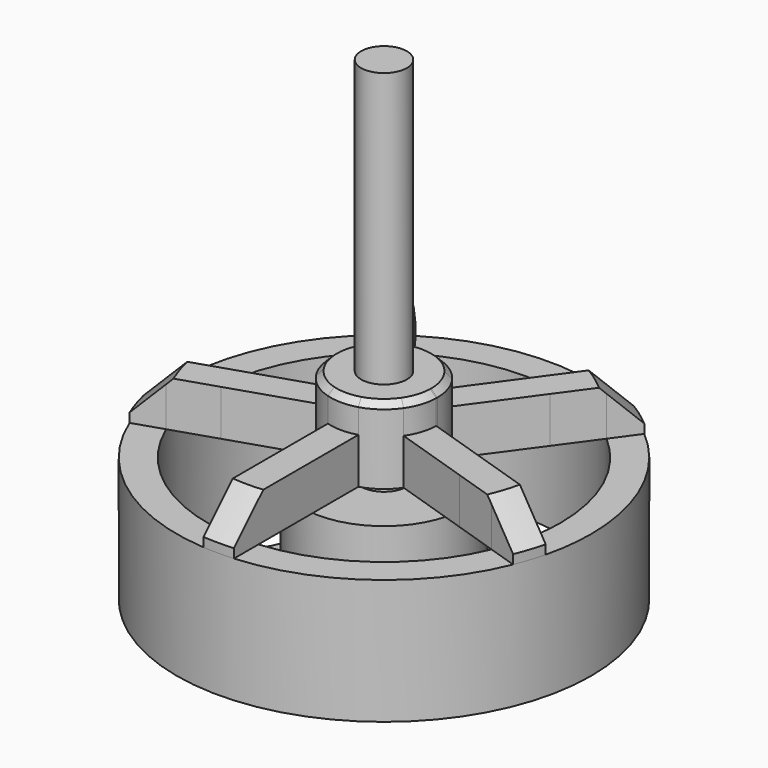
from build123d import *

# Parameters (mm, degrees)
F0_R      = 0.75
F1_DEPTH  = 1
F2_R      = 6.8
F2_R_2    = 5.8
F3_DEPTH  = 4.1
F4_R      = 2.6577966349
F4_R_2    = 0.75
F5_DEPTH  = 2.5
F6_R      = 0.75
F7_DEPTH  = 1.5
F8_SIZE   = 1.2
F9_R      = 0.75
F10_DEPTH = 15.6
F11_R     = 0.75
F12_DEPTH = 1
F13_SIZE  = 0.2


with BuildPart() as f1:
    # F0 (on Top) → F1 (new body)
    with BuildSketch(Plane.XY):
        with BuildLine():
            Line((4.5137502952, 3.3823794453), (3.3823794453, 4.5137502952))
            ThreePointArc((3.3823794453, 4.5137502952), (3.0288260547, 4.6601969046), (2.6752726641, 4.5137502952))
            Line((2.6752726641, 4.5137502952), (1.3468455393, 3.1853231704))
            ThreePointArc((1.3468455393, 3.1853231704), (0.8602105161, 2.8601640434), (0.2861853675, 2.7459833422))
            Line((0.2861853675, 2.7459833422), (-0.2861853675, 2.7459833422))
            ThreePointArc((-0.2861853675, 2.7459833422), (-0.8602105161, 2.8601640434), (-1.3468455393, 3.1853231704))
            Line((-1.3468455393, 3.1853231704), (-2.6752726641, 4.5137502952))
            ThreePointArc((-2.6752726641, 4.5137502952), (-3.0288260547, 4.6601969046), (-3.3823794453, 4.5137502952))
            Line((-3.3823794453, 4.5137502952), (-4.5137502952, 3.3823794453))
            ThreePointArc((-4.5137502952, 3.3823794453), (-4.6601969046, 3.0288260547), (-4.5137502952, 2.6752726641))
            Line((-4.5137502952, 2.6752726641), (-3.1853231704, 1.3468455393))
            ThreePointArc((-3.1853231704, 1.3468455393), (-2.8601640434, 0.8602105161), (-2.7459833422, 0.2861853675))
            Line((-2.7459833422, 0.2861853675), (-2.7459833422, -0.2861853675))
            ThreePointArc((-2.7459833422, -0.2861853675), (-2.8601640434, -0.8602105161), (-3.1853231704, -1.3468455393))
            Line((-3.1853231704, -1.3468455393), (-4.5137502952, -2.6752726641))
            ThreePointArc((-4.5137502952, -2.6752726641), (-4.6601969046, -3.0288260547), (-4.5137502952, -3.3823794453))
            Line((-4.5137502952, -3.3823794453), (-3.3823794453, -4.5137502952))
            ThreePointArc((-3.3823794453, -4.5137502952), (-3.0288260547, -4.6601969046), (-2.6752726641, -4.5137502952))
            Line((-2.6752726641, -4.5137502952), (-1.3468455393, -3.1853231704))
            ThreePointArc((-1.3468455393, -3.1853231704), (-0.8602105161, -2.8601640434), (-0.2861853675, -2.7459833422))
            Line((-0.2861853675, -2.7459833422), (0.2861853675, -2.7459833422))
            ThreePointArc((0.2861853675, -2.7459833422), (0.8602105161, -2.8601640434), (1.3468455393, -3.1853231704))
            Line((1.3468455393, -3.1853231704), (2.6752726641, -4.5137502952))
            ThreePointArc((2.6752726641, -4.5137502952), (3.0288260547, -4.6601969046), (3.3823794453, -4.5137502952))
            Line((3.3823794453, -4.5137502952), (4.5137502952, -3.3823794453))
            ThreePointArc((4.5137502952, -3.3823794453), (4.6601969046, -3.0288260547), (4.5137502952, -2.6752726641))
            Line((4.5137502952, -2.6752726641), (3.1853231704, -1.3468455393))
            ThreePointArc((3.1853231704, -1.3468455393), (2.8601640434, -0.8602105161), (2.7459833422, -0.2861853675))
            Line((2.7459833422, -0.2861853675), (2.7459833422, 0.2861853675))
            ThreePointArc((2.7459833422, 0.2861853675), (2.8601640434, 0.8602105161), (3.1853231704, 1.3468455393))
            Line((3.1853231704, 1.3468455393), (4.5137502952, 2.6752726641))
            ThreePointArc((4.5137502952, 2.6752726641), (4.6601969046, 3.0288260547), (4.5137502952, 3.3823794453))
        make_face()
        with Locations((-3.00520382, -3.00520382)):
            Circle(F0_R, mode=Mode.SUBTRACT)
        with Locations((3.00520382, -3.00520382)):
            Circle(F0_R, mode=Mode.SUBTRACT)
        with Locations((-3.00520382, 3.00520382)):
            Circle(F0_R, mode=Mode.SUBTRACT)
        Circle(F0_R, mode=Mode.SUBTRACT)
        with Locations((3.00520382, 3.00520382)):
            Circle(F0_R, mode=Mode.SUBTRACT)
    extrude(amount=F1_DEPTH)

    # F4 (on face) → F5 (join)
    with BuildSketch(Plane.XY.offset(1)):
        Circle(F4_R)
        Circle(F4_R_2, mode=Mode.SUBTRACT)
    extrude(amount=F5_DEPTH)


with BuildPart() as f3:
    # F2 (on Top) → F3 (new body)
    with BuildSketch(Plane.XY):
        Circle(F2_R)
        Circle(F2_R_2, mode=Mode.SUBTRACT)
    extrude(amount=F3_DEPTH)

    # F6 (on face) → F7 (join)
    with BuildSketch(Plane.XY.offset(4.1)):
        with BuildLine():
            ThreePointArc((-1.3902543324, 1.0628701196), (-1.0286241915, 1.4157797402), (-0.581237338, 1.6506553719))
            Line((-0.581237338, 1.6506553719), (-2.1082734564, 3.7524402771))
            Line((-2.1082734564, 3.7524402771), (-2.9919545571, 4.9687229676))
            ThreePointArc((-2.9919545571, 4.9687229676), (-3.4091544633, 4.6922985674), (-3.8009715514, 4.3809377153))
            Line((-3.8009715514, 4.3809377153), (-2.9172904507, 3.1646550248))
            Line((-2.9172904507, 3.1646550248), (-1.3902543324, 1.0628701196))
        make_face()
        with BuildLine():
            ThreePointArc((-3.8009715514, 4.3809377153), (-3.4091544633, 4.6922985674), (-2.9919545571, 4.9687229676))
            Line((-2.9919545571, 4.9687229676), (-3.5816116985, 5.7803163963))
            ThreePointArc((-3.5816116985, 5.7803163963), (-3.9969397156, 5.5013155617), (-4.3906286929, 5.192531144))
            Line((-4.3906286929, 5.192531144), (-3.8009715514, 4.3809377153))
        make_face()
        with BuildLine():
            ThreePointArc((0.581237338, 1.6506553719), (1.0286241915, 1.4157797402), (1.3902543324, 1.0628701196))
            Line((1.3902543324, 1.0628701196), (2.9172904507, 3.1646550248))
            Line((2.9172904507, 3.1646550248), (3.8009715514, 4.3809377153))
            ThreePointArc((3.8009715514, 4.3809377153), (3.4091544633, 4.6922985674), (2.9919545571, 4.9687229676))
            Line((2.9919545571, 4.9687229676), (2.1082734564, 3.7524402771))
            Line((2.1082734564, 3.7524402771), (0.581237338, 1.6506553719))
        make_face()
        with BuildLine():
            ThreePointArc((2.9919545571, 4.9687229676), (3.4091544633, 4.6922985674), (3.8009715514, 4.3809377153))
            Line((3.8009715514, 4.3809377153), (4.3906286929, 5.192531144))
            ThreePointArc((4.3906286929, 5.192531144), (3.9969397156, 5.5013155617), (3.5816116985, 5.7803163963))
            Line((3.5816116985, 5.7803163963), (2.9919545571, 4.9687229676))
        make_face()
        with BuildLine():
            Line((4.2202751043, -0.8455193928), (1.7494787628, -0.0427089961))
            ThreePointArc((1.7494787628, -0.0427089961), (1.6643489035, -0.5407797402), (1.4404617685, -0.9937655124))
            Line((1.4404617685, -0.9937655124), (3.91125811, -1.7965759091))
            Line((3.91125811, -1.7965759091), (5.3410841661, -2.2611545569))
            ThreePointArc((5.3410841661, -2.2611545569), (5.5161277945, -1.7922985674), (5.6501011605, -1.3100980406))
            Line((5.6501011605, -1.3100980406), (4.2202751043, -0.8455193928))
        make_face()
        with BuildLine():
            Line((6.604186457, -1.6200991454), (5.6501011605, -1.3100980406))
            ThreePointArc((5.6501011605, -1.3100980406), (5.5161277945, -1.7922985674), (5.3410841661, -2.2611545569))
            Line((5.3410841661, -2.2611545569), (6.2951694627, -2.5711556617))
            ThreePointArc((6.2951694627, -2.5711556617), (6.4671843108, -2.1013155617), (6.604186457, -1.6200991454))
        make_face()
        with BuildLine():
            Line((0.5, -4.275), (0.5, -1.6770509831))
            ThreePointArc((0.5, -1.6770509831), (0, -1.75), (-0.5, -1.6770509831))
            Line((-0.5, -1.6770509831), (-0.5, -4.275))
            Line((-0.5, -4.275), (-0.5, -5.7784080853))
            ThreePointArc((-0.5, -5.7784080853), (0, -5.8), (0.5, -5.7784080853))
            Line((0.5, -5.7784080853), (0.5, -4.275))
        make_face()
        with BuildLine():
            ThreePointArc((-1.4404617685, -0.9937655124), (-1.6643489035, -0.5407797402), (-1.7494787628, -0.0427089961))
            Line((-1.7494787628, -0.0427089961), (-4.2202751043, -0.8455193928))
            Line((-4.2202751043, -0.8455193928), (-5.6501011605, -1.3100980406))
            ThreePointArc((-5.6501011605, -1.3100980406), (-5.5161277945, -1.7922985674), (-5.3410841661, -2.2611545569))
            Line((-5.3410841661, -2.2611545569), (-3.91125811, -1.7965759091))
            Line((-3.91125811, -1.7965759091), (-1.4404617685, -0.9937655124))
        make_face()
        with BuildLine():
            ThreePointArc((-5.3410841661, -2.2611545569), (-5.5161277945, -1.7922985674), (-5.6501011605, -1.3100980406))
            Line((-5.6501011605, -1.3100980406), (-6.604186457, -1.6200991454))
            ThreePointArc((-6.604186457, -1.6200991454), (-6.4671843108, -2.1013155617), (-6.2951694627, -2.5711556617))
            Line((-6.2951694627, -2.5711556617), (-5.3410841661, -2.2611545569))
        make_face()
        with BuildLine():
            ThreePointArc((1.7494787628, -0.0427089961), (1.7498696859, -0.0213560883), (1.75, 0))
            ThreePointArc((1.75, 0), (1.6576255732, 0.5610503178), (1.3902543324, 1.0628701196))
            ThreePointArc((1.3902543324, 1.0628701196), (1.0286241915, 1.4157797402), (0.581237338, 1.6506553719))
            ThreePointArc((0.581237338, 1.6506553719), (0, 1.75), (-0.581237338, 1.6506553719))
            ThreePointArc((-0.581237338, 1.6506553719), (-1.0286241915, 1.4157797402), (-1.3902543324, 1.0628701196))
            ThreePointArc((-1.3902543324, 1.0628701196), (-1.6643489035, 0.5407797402), (-1.7494787628, -0.0427089961))
            ThreePointArc((-1.7494787628, -0.0427089961), (-1.6643489035, -0.5407797402), (-1.4404617685, -0.9937655124))
            ThreePointArc((-1.4404617685, -0.9937655124), (-1.0286241915, -1.4157797402), (-0.5, -1.6770509831))
            ThreePointArc((-0.5, -1.6770509831), (0, -1.75), (0.5, -1.6770509831))
            ThreePointArc((0.5, -1.6770509831), (1.0286241915, -1.4157797402), (1.4404617685, -0.9937655124))
            ThreePointArc((1.4404617685, -0.9937655124), (1.6643489035, -0.5407797402), (1.7494787628, -0.0427089961))
        make_face()
        Circle(F6_R, mode=Mode.SUBTRACT)
        with BuildLine():
            Line((0.5, -6.7815927333), (0.5, -5.7784080853))
            ThreePointArc((0.5, -5.7784080853), (0, -5.8), (-0.5, -5.7784080853))
            Line((-0.5, -5.7784080853), (-0.5, -6.7815927333))
            ThreePointArc((-0.5, -6.7815927333), (0, -6.8), (0.5, -6.7815927333))
        make_face()
    extrude(amount=F7_DEPTH)

    # F8
    f8_edges = [f3.edges().sort_by_distance(p)[0] for p in [
        (-6.467184, -2.101316, 5.6),
        (-3.99694, 5.501316, 5.6),
        (3.99694, 5.501316, 5.6),
        (6.467184, -2.101316, 5.6),
        (0, -6.8, 5.6),
    ]]
    chamfer(f8_edges, length=F8_SIZE)

    # F11 (on face) → F12 (join)
    with BuildSketch(Plane.XY.offset(5.6)):
        with BuildLine():
            ThreePointArc((1.7494787628, -0.0427089961), (1.7498696859, -0.0213560883), (1.75, 0))
            ThreePointArc((1.75, 0), (1.6576255732, 0.5610503178), (1.3902543324, 1.0628701196))
            ThreePointArc((1.3902543324, 1.0628701196), (1.0286241915, 1.4157797402), (0.581237338, 1.6506553719))
            ThreePointArc((0.581237338, 1.6506553719), (0, 1.75), (-0.581237338, 1.6506553719))
            ThreePointArc((-0.581237338, 1.6506553719), (-1.0286241915, 1.4157797402), (-1.3902543324, 1.0628701196))
            ThreePointArc((-1.3902543324, 1.0628701196), (-1.6643489035, 0.5407797402), (-1.7494787628, -0.0427089961))
            ThreePointArc((-1.7494787628, -0.0427089961), (-1.6643489035, -0.5407797402), (-1.4404617685, -0.9937655124))
            ThreePointArc((-1.4404617685, -0.9937655124), (-1.0286241915, -1.4157797402), (-0.5, -1.6770509831))
            ThreePointArc((-0.5, -1.6770509831), (0, -1.75), (0.5, -1.6770509831))
            ThreePointArc((0.5, -1.6770509831), (1.0286241915, -1.4157797402), (1.4404617685, -0.9937655124))
            ThreePointArc((1.4404617685, -0.9937655124), (1.6643489035, -0.5407797402), (1.7494787628, -0.0427089961))
        make_face()
        Circle(F11_R, mode=Mode.SUBTRACT)
    extrude(amount=F12_DEPTH)

    # F13
    f13_edges = [f3.edges().sort_by_distance(p)[0] for p in [
        (1.749479, 0.042709, 6.6),
    ]]
    chamfer(f13_edges, length=F13_SIZE)


with BuildPart() as f10:
    # F9 (on Top) → F10 (new body)
    with BuildSketch(Plane.XY):
        Circle(F9_R)
    extrude(amount=F10_DEPTH)


solid = Compound([f1.part, f3.part, f10.part])
